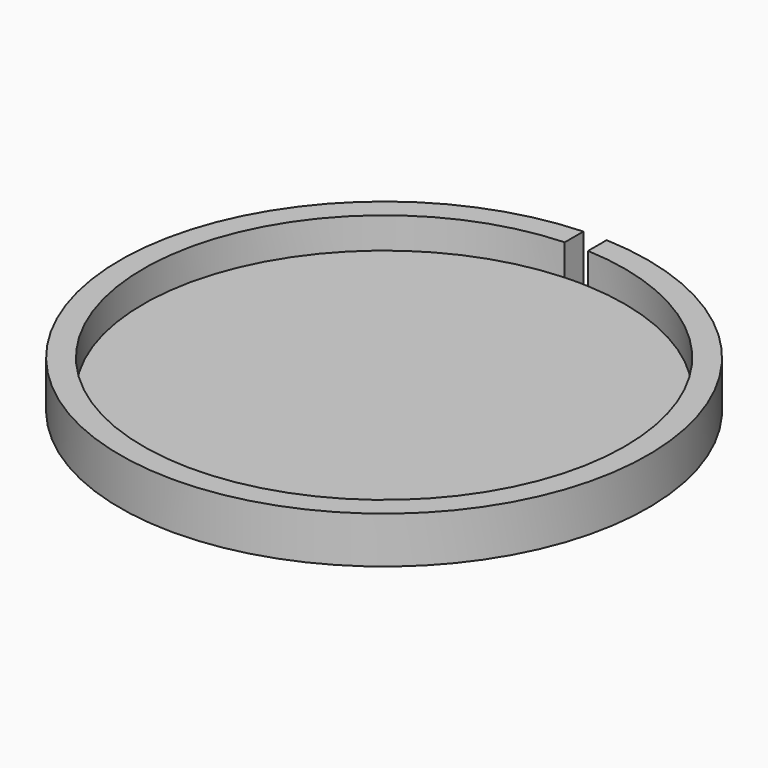
from build123d import *

# Parameters (mm, degrees)
F1_DEPTH = 6
F2_DEPTH = 2
F3_DEPTH = 25


with BuildPart() as f1:
    # F0 (on Top) → F1 (new body)
    with BuildSketch(Plane.XY):
        with BuildLine():
            Line((1.5, 30.9636884108), (1.5, 33.9668956486))
            ThreePointArc((1.5, 33.9668956486), (0, 34), (-1.5, 33.9668956486))
            Line((-1.5, 33.9668956486), (-1.5, 30.9636884108))
            ThreePointArc((-1.5, 30.9636884108), (0, 31), (1.5, 30.9636884108))
        make_face()
        with BuildLine():
            ThreePointArc((-1.5, 33.9668956486), (-23.5053185471, -24.5662369931), (34, 0))
            ThreePointArc((34, 0), (24.5662369931, 23.5053185471), (1.5, 33.9668956486))
            Line((1.5, 33.9668956486), (1.5, 30.9636884108))
            ThreePointArc((1.5, 30.9636884108), (22.4443756875, 21.3834047803), (31, 0))
            ThreePointArc((31, 0), (-21.3834047803, -22.4443756875), (-1.5, 30.9636884108))
            Line((-1.5, 30.9636884108), (-1.5, 33.9668956486))
        make_face()
    extrude(amount=F1_DEPTH)

    # F0 (on Top) → F2 (join)
    with BuildSketch(Plane.XY):
        with BuildLine():
            Line((1.5, 25.6097931415), (1.5, 30.9636884108))
            ThreePointArc((1.5, 30.9636884108), (0, 31), (-1.5, 30.9636884108))
            Line((-1.5, 30.9636884108), (-1.5, 25.6097931415))
            Line((-1.5, 25.6097931415), (1.5, 25.6097931415))
        make_face()
        with BuildLine():
            ThreePointArc((31, 0), (22.4443756875, 21.3834047803), (1.5, 30.9636884108))
            Line((1.5, 30.9636884108), (1.5, 25.6097931415))
            Line((1.5, 25.6097931415), (-1.5, 25.6097931415))
            Line((-1.5, 25.6097931415), (-1.5, 30.9636884108))
            ThreePointArc((-1.5, 30.9636884108), (-21.3834047803, -22.4443756875), (31, 0))
        make_face()
    extrude(amount=F2_DEPTH)

    # F0 (on Top) → F3 (cut)
    with BuildSketch(Plane.XY):
        with BuildLine():
            Line((1.5, 30.9636884108), (1.5, 33.9668956486))
            ThreePointArc((1.5, 33.9668956486), (0, 34), (-1.5, 33.9668956486))
            Line((-1.5, 33.9668956486), (-1.5, 30.9636884108))
            ThreePointArc((-1.5, 30.9636884108), (0, 31), (1.5, 30.9636884108))
        make_face()
    extrude(amount=F3_DEPTH, mode=Mode.SUBTRACT)


solid = f1.part
